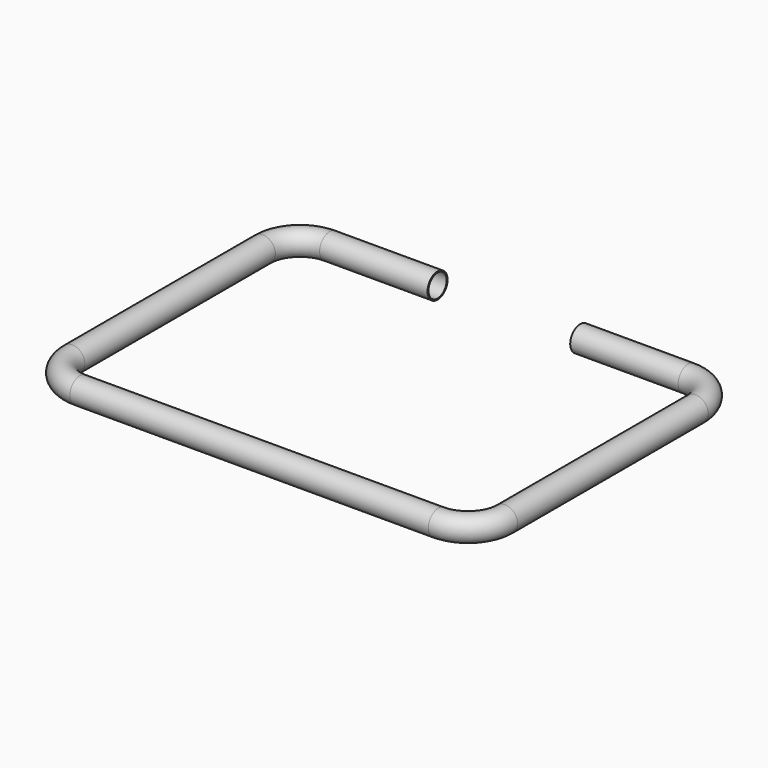
from build123d import *

# Parameters (mm, degrees)
F0_R   = 13.5
F0_R_2 = 12.25


with BuildPart() as f2:
    # F2: sweep along a path in F1
    with BuildLine(Plane.XY) as f2_path:
        Line((0, 0), (116.5, 0))
        ThreePointArc((116.5, 0), (144.7842712475, -11.7157287525), (156.5, -40))
        Line((156.5, -40), (156.5, -297))
        ThreePointArc((156.5, -297), (144.7842712475, -325.2842712475), (116.5, -337))
        Line((116.5, -337), (-270.5, -337))
        ThreePointArc((-270.5, -337), (-298.7842712475, -325.2842712475), (-310.5, -297))
        Line((-310.5, -297), (-310.5, -40))
        ThreePointArc((-310.5, -40), (-298.7842712475, -11.7157287525), (-270.5, 0))
        Line((-270.5, 0), (-154, 0))
    # F0 (on Right) → F2 (sweep)
    with BuildSketch(Plane.YZ):
        Circle(F0_R)
        Circle(F0_R_2, mode=Mode.SUBTRACT)
    sweep(path=f2_path.line)


solid = f2.part
